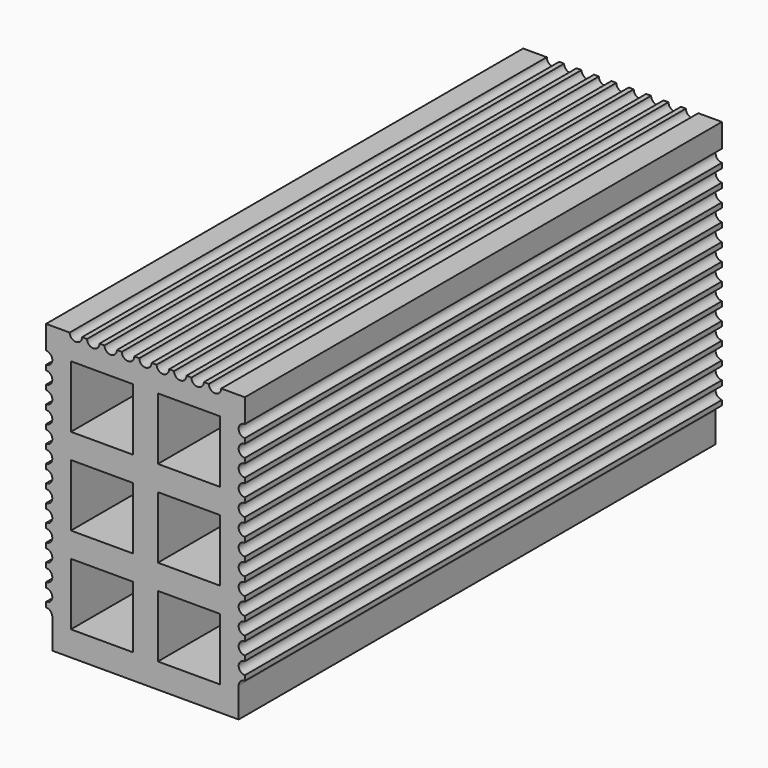
from build123d import *

# Parameters (mm, degrees)
F0_W     = 25
F0_H     = 25
F1_DEPTH = 240


with BuildPart() as f1:
    # F0 (on Front) → F1 (new body)
    with BuildSketch(Plane.XZ):
        with BuildLine():
            Line((-37.5, -45.5), (-37.5, -57.5))
            Line((-37.5, -57.5), (37.5, -57.5))
            Line((37.5, -57.5), (37.5, -45.5))
            ThreePointArc((37.5, -45.5), (38.232233, -43.732233), (40, -43))
            Line((40, -43), (40, -41))
            ThreePointArc((40, -41), (37.5, -38.5), (40, -36))
            Line((40, -36), (40, -34))
            ThreePointArc((40, -34), (37.5, -31.5), (40, -29))
            Line((40, -29), (40, -27))
            ThreePointArc((40, -27), (37.5, -24.5), (40, -22))
            Line((40, -22), (40, -20))
            ThreePointArc((40, -20), (37.5, -17.5), (40, -15))
            Line((40, -15), (40, -13))
            ThreePointArc((40, -13), (37.5, -10.5), (40, -8))
            Line((40, -8), (40, -6))
            ThreePointArc((40, -6), (37.5, -3.5), (40, -1))
            Line((40, -1), (40, 1))
            ThreePointArc((40, 1), (37.5, 3.5), (40, 6))
            Line((40, 6), (40, 8))
            ThreePointArc((40, 8), (37.5, 10.5), (40, 13))
            Line((40, 13), (40, 15))
            ThreePointArc((40, 15), (37.5, 17.5), (40, 20))
            Line((40, 20), (40, 22))
            ThreePointArc((40, 22), (37.5, 24.5), (40, 27))
            Line((40, 27), (40, 29))
            ThreePointArc((40, 29), (37.5, 31.5), (40, 34))
            Line((40, 34), (40, 36))
            ThreePointArc((40, 36), (37.5, 38.5), (40, 41))
            Line((40, 41), (40, 43))
            ThreePointArc((40, 43), (37.5, 45.5), (40, 48))
            Line((40, 48), (40, 57.5))
            Line((40, 57.5), (30.5, 57.5))
            ThreePointArc((30.5, 57.5), (28, 55), (25.5, 57.5))
            Line((25.5, 57.5), (23.5, 57.5))
            ThreePointArc((23.5, 57.5), (21, 55), (18.5, 57.5))
            Line((18.5, 57.5), (16.5, 57.5))
            ThreePointArc((16.5, 57.5), (14, 55), (11.5, 57.5))
            Line((11.5, 57.5), (9.5, 57.5))
            ThreePointArc((9.5, 57.5), (7, 55), (4.5, 57.5))
            Line((4.5, 57.5), (2.5, 57.5))
            ThreePointArc((2.5, 57.5), (0, 55), (-2.5, 57.5))
            Line((-2.5, 57.5), (-4.5, 57.5))
            ThreePointArc((-4.5, 57.5), (-7, 55), (-9.5, 57.5))
            Line((-9.5, 57.5), (-11.5, 57.5))
            ThreePointArc((-11.5, 57.5), (-14, 55), (-16.5, 57.5))
            Line((-16.5, 57.5), (-18.5, 57.5))
            ThreePointArc((-18.5, 57.5), (-21, 55), (-23.5, 57.5))
            Line((-23.5, 57.5), (-25.5, 57.5))
            ThreePointArc((-25.5, 57.5), (-28, 55), (-30.5, 57.5))
            Line((-30.5, 57.5), (-40, 57.5))
            Line((-40, 57.5), (-40, 48))
            ThreePointArc((-40, 48), (-37.5, 45.5), (-40, 43))
            Line((-40, 43), (-40, 41))
            ThreePointArc((-40, 41), (-37.5, 38.5), (-40, 36))
            Line((-40, 36), (-40, 34))
            ThreePointArc((-40, 34), (-37.5, 31.5), (-40, 29))
            Line((-40, 29), (-40, 27))
            ThreePointArc((-40, 27), (-37.5, 24.5), (-40, 22))
            Line((-40, 22), (-40, 20))
            ThreePointArc((-40, 20), (-37.5, 17.5), (-40, 15))
            Line((-40, 15), (-40, 13))
            ThreePointArc((-40, 13), (-37.5, 10.5), (-40, 8))
            Line((-40, 8), (-40, 6))
            ThreePointArc((-40, 6), (-37.5, 3.5), (-40, 1))
            Line((-40, 1), (-40, -1))
            ThreePointArc((-40, -1), (-37.5, -3.5), (-40, -6))
            Line((-40, -6), (-40, -8))
            ThreePointArc((-40, -8), (-37.5, -10.5), (-40, -13))
            Line((-40, -13), (-40, -15))
            ThreePointArc((-40, -15), (-37.5, -17.5), (-40, -20))
            Line((-40, -20), (-40, -22))
            ThreePointArc((-40, -22), (-37.5, -24.5), (-40, -27))
            Line((-40, -27), (-40, -29))
            ThreePointArc((-40, -29), (-37.5, -31.5), (-40, -34))
            Line((-40, -34), (-40, -36))
            ThreePointArc((-40, -36), (-37.5, -38.5), (-40, -41))
            Line((-40, -41), (-40, -43))
            ThreePointArc((-40, -43), (-38.232233, -43.732233), (-37.5, -45.5))
        make_face()
        with Locations((-17.5, -35)):
            Rectangle(F0_W, F0_H, mode=Mode.SUBTRACT)
        with Locations((17.5, -35)):
            Rectangle(F0_W, F0_H, mode=Mode.SUBTRACT)
        with Locations((-17.5, 0)):
            Rectangle(F0_W, F0_H, mode=Mode.SUBTRACT)
        with Locations((-17.5, 35)):
            Rectangle(F0_W, F0_H, mode=Mode.SUBTRACT)
        with Locations((17.5, 0)):
            Rectangle(F0_W, F0_H, mode=Mode.SUBTRACT)
        with Locations((17.5, 35)):
            Rectangle(F0_W, F0_H, mode=Mode.SUBTRACT)
    extrude(amount=F1_DEPTH)


solid = f1.part
